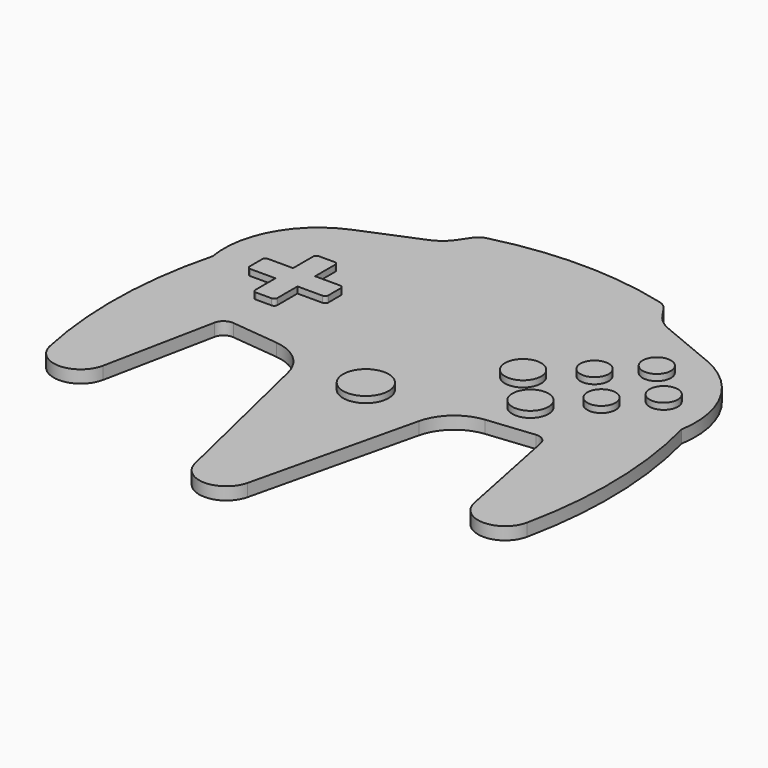
from build123d import *

# Parameters (mm, degrees)
PAD_DEPTH     = 4
FILLET_R      = 5
SKETCH001_R   = 7.25
SKETCH001_R_2 = 5.75
SKETCH001_R_3 = 4.5
PAD001_DEPTH  = 2


with BuildPart() as part:
    # Sketch → Pad (new body)
    with BuildSketch(Plane.XY):
        with BuildLine():
            Line((-8.392638, -94.773898), (-20.838068, -42.247688))
            ThreePointArc((-20.838068, -42.247688), (-25.283831, -34.851678), (-33.189712, -31.392947))
            Line((-48.108948, -29.838473), (-33.189712, -31.392947))
            ThreePointArc((-48.108948, -29.838473), (-50.544507, -30.499468), (-51.902377, -32.626684))
            Line((-51.902377, -32.626684), (-59.045734, -67.993001))
            ThreePointArc((-75.934928, -68.086092), (-67.452461, -74.910237), (-59.045734, -67.993001))
            ThreePointArc((-74.580399, -5), (-78.929877, -36.4642), (-75.934928, -68.086092))
            ThreePointArc((-56.5, 27.708302), (-71.255629, 14.513509), (-74.580399, -5))
            Line((-56.5, 27.708302), (-38.027799, 35.374969))
            ThreePointArc((-38.027799, 35.374969), (-35.024382, 37.16978), (-32.660861, 39.74963))
            Line((-32.660861, 39.74963), (-29.375, 44.589632))
            ThreePointArc((29.375, 44.589632), (0, 48.589632), (-29.375, 44.589632))
            Line((32.660861, 39.74963), (29.375, 44.589632))
            ThreePointArc((32.660861, 39.74963), (35.024382, 37.16978), (38.027799, 35.374969))
            Line((56.5, 27.708302), (38.027799, 35.374969))
            ThreePointArc((74.580399, -5), (71.255629, 14.513509), (56.5, 27.708302))
            ThreePointArc((75.934928, -68.086092), (78.929877, -36.4642), (74.580399, -5))
            ThreePointArc((59.045729, -67.992978), (67.452449, -74.910237), (75.934928, -68.086092))
            Line((51.902377, -32.626684), (59.045729, -67.992978))
            ThreePointArc((51.902377, -32.626684), (50.544507, -30.499468), (48.108948, -29.838472))
            Line((33.189712, -31.392947), (48.108948, -29.838472))
            ThreePointArc((33.189712, -31.392947), (25.283831, -34.851678), (20.838068, -42.247688))
            Line((8.392638, -94.773899), (20.838068, -42.247688))
            ThreePointArc((-8.392638, -94.773898), (0, -101.410368), (8.392638, -94.773899))
        make_face()
    extrude(amount=PAD_DEPTH)

    # Fillet
    fillet_edges = [part.edges().sort_by_distance(p)[0] for p in [
        (29.375, 44.589632, 2),
        (-29.375, 44.589632, 2),
    ]]
    fillet(fillet_edges, radius=FILLET_R)

    # Sketch001 (on Face26 of Pad) → Pad001 (join)
    with BuildSketch(Plane.XY.offset(4)):
        with Locations((0, -37.310368)):
            Circle(SKETCH001_R)
        with Locations((37.833116, -19.159138)):
            Circle(SKETCH001_R_2)
        with Locations((26.165854, -7.491876)):
            Circle(SKETCH001_R_2)
        with Locations((50.739369, 14.945877)):
            Circle(SKETCH001_R_3)
        with Locations((61.739369, 3.945877)):
            Circle(SKETCH001_R_3)
        with Locations((50.739369, -7.054123)):
            Circle(SKETCH001_R_3)
        with Locations((39.739369, 3.945877)):
            Circle(SKETCH001_R_3)
        with BuildLine():
            Line((-45.578289, -0.5285), (-45.578289, 7.4715))
            ThreePointArc((-45.578289, 7.4715), (-45.871183, 8.178607), (-46.578289, 8.4715))
            Line((-46.578289, 8.4715), (-51.578289, 8.4715))
            ThreePointArc((-51.578289, 8.4715), (-52.285396, 8.178607), (-52.578289, 7.4715))
            Line((-52.578289, 7.4715), (-52.578289, -0.5285))
            Line((-52.578289, -0.5285), (-60.578289, -0.5285))
            ThreePointArc((-60.578289, -0.5285), (-61.285396, -0.821393), (-61.578289, -1.5285))
            Line((-61.578289, -1.5285), (-61.578289, -6.5285))
            ThreePointArc((-61.578289, -6.5285), (-61.285396, -7.235607), (-60.578289, -7.5285))
            Line((-60.578289, -7.5285), (-52.578289, -7.5285))
            Line((-52.578289, -7.5285), (-52.578289, -15.5285))
            ThreePointArc((-52.578289, -15.5285), (-52.285396, -16.235607), (-51.578289, -16.5285))
            Line((-51.578289, -16.5285), (-46.578289, -16.5285))
            ThreePointArc((-46.578289, -16.5285), (-45.871183, -16.235607), (-45.578289, -15.5285))
            Line((-45.578289, -15.5285), (-45.578289, -7.5285))
            Line((-45.578289, -7.5285), (-37.578289, -7.5285))
            ThreePointArc((-37.578289, -7.5285), (-36.871183, -7.235607), (-36.578289, -6.5285))
            Line((-36.578289, -6.5285), (-36.578289, -1.5285))
            ThreePointArc((-36.578289, -1.5285), (-36.871183, -0.821393), (-37.578289, -0.5285))
            Line((-37.578289, -0.5285), (-45.578289, -0.5285))
        make_face()
    extrude(amount=PAD001_DEPTH)


solid = part.part
